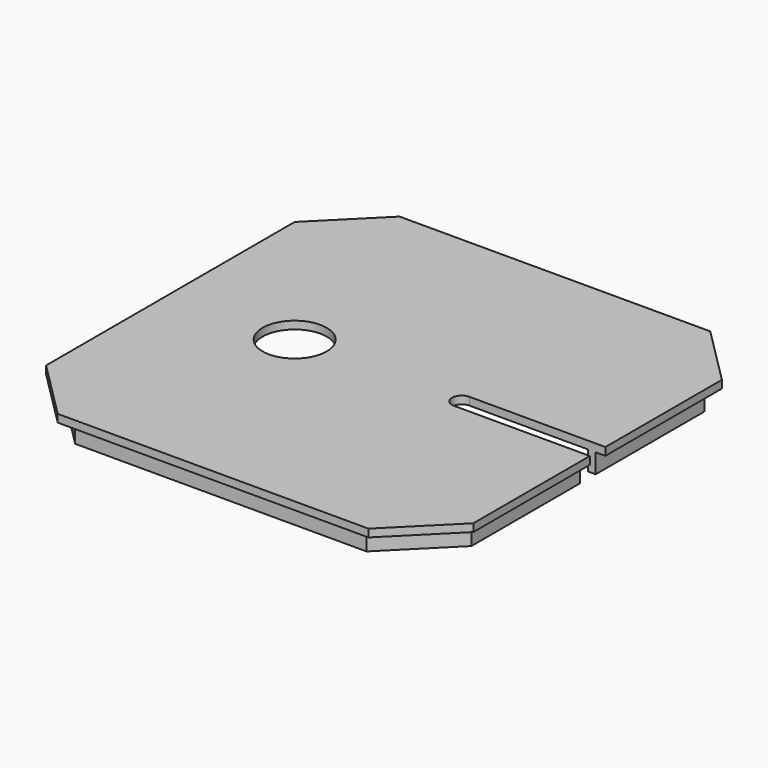
from build123d import *

# Parameters (mm, degrees)
PAD004_DEPTH = 10
SKETCH003_R  = 8.25
PAD003_DEPTH = 10
SKETCH002_W  = 101
SKETCH002_H  = 101
PAD002_DEPTH = 5
SKETCH_W     = 105
SKETCH_H     = 105
PAD_DEPTH    = 5
SKETCH001_W  = 110
SKETCH001_H  = 110
PAD001_DEPTH = 2
CHAMFER_SIZE = 15


with BuildPart() as body003:
    # Sketch004 → Pad004 (new body)
    with BuildSketch(Plane.XY):
        with BuildLine():
            Line((60, -2.5), (60, 2.5))
            Line((60, 2.5), (20, 2.5))
            ThreePointArc((20, 2.5), (17.5, 0), (20, -2.5))
            Line((20, -2.5), (60, -2.5))
        make_face()
    extrude(amount=PAD004_DEPTH)


with BuildPart() as body002:
    # Sketch003 → Pad003 (new body)
    with BuildSketch(Plane.XY):
        with Locations((-23, 0)):
            Circle(SKETCH003_R)
    extrude(amount=PAD003_DEPTH)


with BuildPart() as body001:
    # Sketch002 → Pad002 (new body)
    with BuildSketch(Plane.XY):
        Rectangle(SKETCH002_W, SKETCH002_H)
    extrude(amount=PAD002_DEPTH)


with BuildPart() as chamfer_body:
    # Sketch → Pad (new body)
    with BuildSketch(Plane.XY):
        Rectangle(SKETCH_W, SKETCH_H)
    extrude(amount=PAD_DEPTH)

    # Sketch001 (on Face6 of Pad) → Pad001 (join)
    with BuildSketch(Plane.XY.offset(5)):
        Rectangle(SKETCH001_W, SKETCH001_H)
    extrude(amount=PAD001_DEPTH)

    # Cut: cut Body001
    add(body001.part, mode=Mode.SUBTRACT)

    # Cut001: cut Body002
    add(body002.part, mode=Mode.SUBTRACT)

    # Cut002: cut Body003
    add(body003.part, mode=Mode.SUBTRACT)

    # Chamfer
    chamfer_edges = [chamfer_body.edges().sort_by_distance(p)[0] for p in [
        (-55, 55, 6),
        (55, 55, 6),
        (-55, -55, 6),
        (55, -55, 6),
        (52.5, 52.5, 2.5),
        (-52.5, 52.5, 2.5),
        (-52.5, -52.5, 2.5),
        (52.5, -52.5, 2.5),
        (50.5, 50.5, 2.5),
        (50.5, -50.5, 2.5),
        (-50.5, 50.5, 2.5),
        (-50.5, -50.5, 2.5),
    ]]
    chamfer(chamfer_edges, length=CHAMFER_SIZE)


solid = chamfer_body.part
